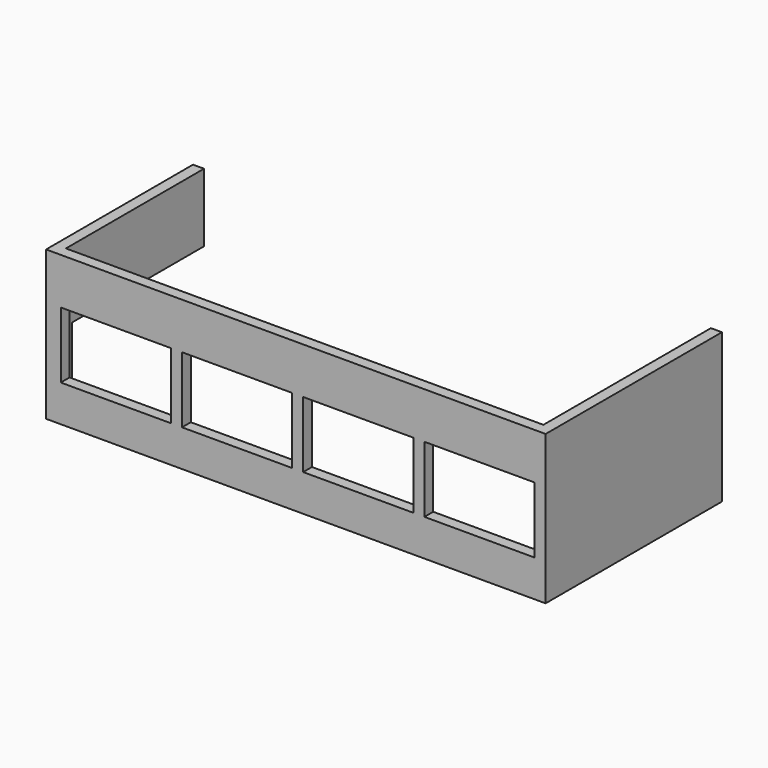
from build123d import *

# Parameters (mm, degrees)
F1_DEPTH = 4060
F2_W     = 3000
F2_H     = 1800
F3_DEPTH = 6000.001
F5_W     = 4500
F5_H     = 2200
F6_DEPTH = 500
F7_W     = 3000
F7_H     = 1800
F8_DEPTH = 500


with BuildPart() as f1:
    # F0 (on Top) → F1 (new body)
    with BuildSketch(Plane.XY):
        Polygon((300, 0), (0, 0), (0, -5000), (13600, -5000), (13600, 1000), (13300, 1000), (13300, -4700), (300, -4700), align=None)
    extrude(amount=F1_DEPTH)

    # F2 (on face) → F3 (cut, through all)
    with BuildSketch(Plane.XZ.offset(5000)):
        with Locations((1900, 1900)):
            Rectangle(F2_W, F2_H)
        with Locations((5200, 1900)):
            Rectangle(F2_W, F2_H)
        with Locations((8500, 1900)):
            Rectangle(F2_W, F2_H)
    extrude(amount=-F3_DEPTH, mode=Mode.SUBTRACT)

    # F5 (on face) → F6 (cut)
    with BuildSketch(Plane(origin=(0, 0, 0), x_dir=(0, -1, 0), z_dir=(-1, 0, 0))):
        with Locations((2250, 1100)):
            Rectangle(F5_W, F5_H)
    extrude(amount=-F6_DEPTH, mode=Mode.SUBTRACT)

    # F7 (on face) → F8 (cut)
    with BuildSketch(Plane.XZ.offset(5000)):
        with Locations((11800, 1900)):
            Rectangle(F7_W, F7_H)
    extrude(amount=-F8_DEPTH, mode=Mode.SUBTRACT)


solid = f1.part
